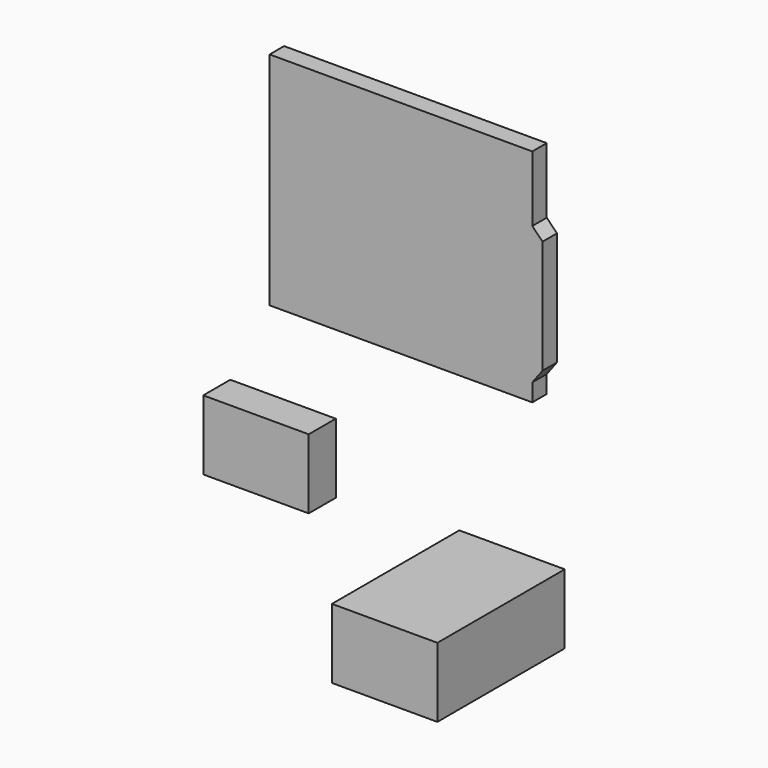
from build123d import *

# Parameters (mm, degrees)
F1_DEPTH = 4.54
F2_W     = 26.5
F2_H     = 17.5
F3_DEPTH = 40
F4_W     = 26.5
F4_H     = 17.5
F5_DEPTH = 8.5


with BuildPart() as f1:
    # F0 (on Front) → F1 (new body)
    with BuildSketch(Plane.XZ):
        Polygon((-48.301934, 55.507566), (-48.301934, 0), (17.698066, 0), (17.698066, 4.424516), (20.278066, 7.843461), (20.278066, 36.4017), (17.698066, 39.016187), (17.698066, 55.507566), align=None)
    extrude(amount=F1_DEPTH)


with BuildPart() as f3:
    # F2 (on Front) → F3 (new body)
    with BuildSketch(Plane.XZ):
        with Locations((8.972736, -46.046509)):
            Rectangle(F2_W, F2_H)
    extrude(amount=F3_DEPTH)


with BuildPart() as f5:
    # F4 (on Front) → F5 (new body)
    with BuildSketch(Plane.XZ):
        with Locations((-48.55953, -31.438339)):
            Rectangle(F4_W, F4_H)
    extrude(amount=F5_DEPTH)


solid = Compound([f1.part, f3.part, f5.part])
